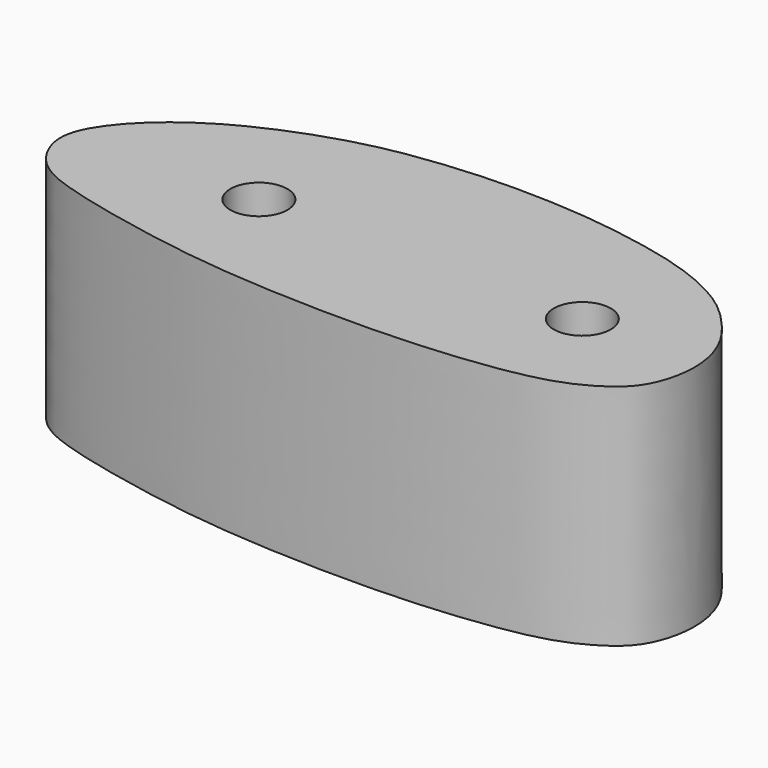
from build123d import *

# Parameters (mm, degrees)
F0_R     = 3.75
F1_DEPTH = 30


with BuildPart() as f1:
    # F0 (on Top) → F1 (new body)
    with BuildSketch(Plane.XY):
        with BuildLine():
            add(Edge.make_bspline(
                [(-1.1291685514, -1.3863903005), (-1.09520204, 0.5974255282), (-1.9526377374, 4.1860060234), (-4.94725706, 8.2270100152), (-8.5041826555, 11.739783324), (-14.7806028275, 14.9339589899), (-22.5852023262, 16.8485691184), (-30.6314777776, 18.0646986222), (-39.0324500834, 18.4965344735), (-46.8835186699, 18.2385765769), (-56.267597145, 17.1502031898), (-64.6675732568, 14.6390002976), (-72.109248268, 11.3214943759), (-77.8523243295, 7.4620325197), (-82.2178864641, 2.9945058611), (-84.7336567648, -2.1472815385), (-81.7152347403, -8.0325883014), (-75.9812238343, -10.2882814576), (-68.759093169, -12.0528467384), (-59.1051075634, -13.901808889), (-49.7404905473, -14.9242398752), (-38.9979757923, -15.3872028571), (-28.4656548181, -15.2651826906), (-19.0978895128, -14.4816694472), (-10.7616023049, -13.0412001292), (-5.8536215524, -10.6026266126), (-2.1978128147, -7.5664624583), (-1.1646285018, -3.4574305094), (-1.1291685514, -1.3863903005)],
                knots=[0, 0, 0, 0, 0.0336236885, 0.0650128885, 0.0965237868, 0.1339155658, 0.1743859883, 0.2151203708, 0.256139717, 0.296133284, 0.3397124359, 0.3820595466, 0.422526741, 0.4598655873, 0.4952895163, 0.5278489865, 0.5619753871, 0.5965726662, 0.6354758024, 0.6800124922, 0.723932868, 0.7705338345, 0.8168341916, 0.8607821515, 0.9019126671, 0.9347464957, 0.9648979457, 1, 1, 1, 1], degree=3))
        make_face()
        with Locations((-59.3487946345, 0)):
            Circle(F0_R, mode=Mode.SUBTRACT)
        with BuildLine():
            ThreePointArc((-13.0987946345, 0), (-16.8487946345, -3.75), (-20.5987946345, 0))
            ThreePointArc((-20.5987946345, 0), (-16.8487946345, 3.75), (-13.0987946345, 0))
        make_face(mode=Mode.SUBTRACT)
    extrude(amount=F1_DEPTH)


solid = f1.part
